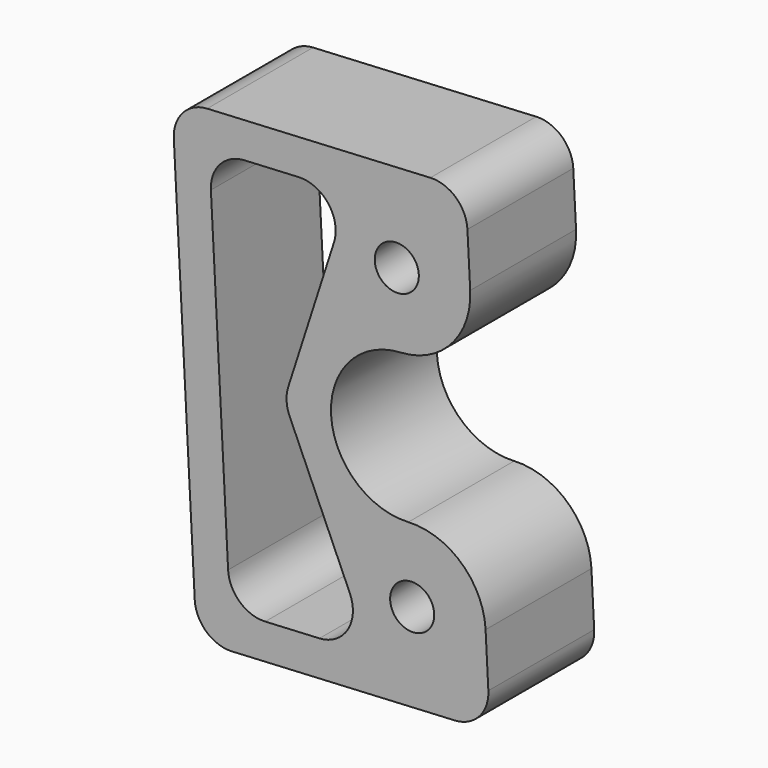
from build123d import *

# Parameters (mm, degrees)
F0_R     = 1.875
F1_DEPTH = 11.25
F3_DEPTH = 25


with BuildPart() as f1:
    # F0 (on Front) → F1 (new body)
    with BuildSketch(Plane.XZ):
        with BuildLine():
            ThreePointArc((-0.3271, 6.241435), (3.990456, 8.300803), (5.587235, 12.809969))
            Line((5.587235, 12.809969), (5.351723, 17.303802))
            ThreePointArc((5.351723, 17.303802), (4.363227, 19.376228), (2.198827, 20.142683))
            Line((2.198827, 20.142683), (-16.775134, 19.148299))
            ThreePointArc((-16.775134, 19.148299), (-18.847561, 18.159803), (-19.614015, 15.995403))
            Line((-19.614015, 15.995403), (-18.724304, -0.981299))
            Line((-18.724304, -0.981299), (-17.834593, -17.958001))
            ThreePointArc((-17.834593, -17.958001), (-16.846096, -20.030428), (-14.681696, -20.796882))
            Line((-14.681696, -20.796882), (4.292265, -19.802499))
            ThreePointArc((4.292265, -19.802499), (6.364692, -18.814002), (7.131146, -16.649602))
            Line((7.131146, -16.649602), (6.895634, -12.155769))
            ThreePointArc((6.895634, -12.155769), (4.836266, -7.838214), (0.3271, -6.241435))
            ThreePointArc((0.3271, -6.241435), (-6.241435, -0.3271), (-0.3271, 6.241435))
        make_face()
        with Locations((0.654199, -12.482869)):
            Circle(F0_R, mode=Mode.SUBTRACT)
        with Locations((-0.654199, 12.482869)):
            Circle(F0_R, mode=Mode.SUBTRACT)
    extrude(amount=-F1_DEPTH)

    # F2 (on face) → F3 (cut)
    with BuildSketch(Plane.XZ):
        with BuildLine():
            ThreePointArc((-14.995712, -14.805105), (-14.007215, -16.877531), (-11.842815, -17.643986))
            Line((-11.842815, -17.643986), (-7.228546, -17.402162))
            ThreePointArc((-7.228546, -17.402162), (-4.829754, -15.977225), (-4.641629, -13.193477))
            Line((-4.641629, -13.193477), (-9.774162, -1.581236))
            ThreePointArc((-9.774162, -1.581236), (-10.026125, -0.525447), (-9.885902, 0.550895))
            Line((-9.885902, 0.550895), (-5.995295, 12.636019))
            ThreePointArc((-5.995295, 12.636019), (-6.473371, 15.384853), (-9.007968, 16.551242))
            Line((-9.007968, 16.551242), (-13.622238, 16.309419))
            ThreePointArc((-13.622238, 16.309419), (-15.694664, 15.320922), (-16.461119, 13.156522))
            Line((-16.461119, 13.156522), (-14.995712, -14.805105))
        make_face()
    extrude(amount=-F3_DEPTH, mode=Mode.SUBTRACT)


solid = f1.part
